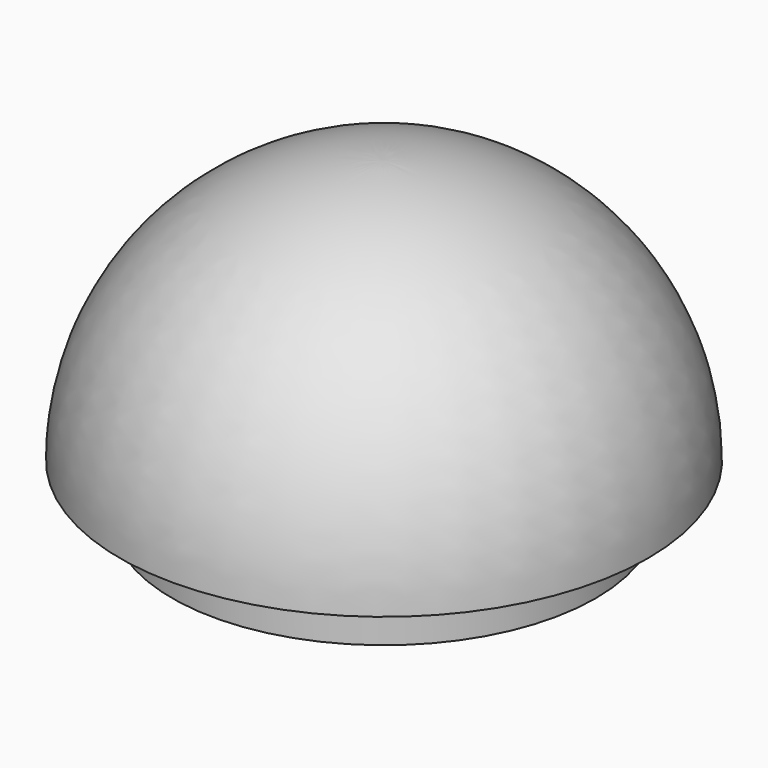
from build123d import *


with BuildPart() as f1:
    # F0 (on Front) → F1 (revolve)
    with BuildSketch(Plane.XZ):
        with BuildLine():
            Line((9.2, 11.01249), (9.2, 0))
            Line((9.2, 0), (12.2, 0))
            Line((12.2, 0), (12.2, 3))
            Line((12.2, 3), (15.2, 3))
            ThreePointArc((15.2, 3), (10.748023, 13.748023), (0, 18.2))
            Line((0, 18.2), (0, 15.2))
            ThreePointArc((0, 15.2), (5.054088, 14.103882), (9.2, 11.01249))
        make_face()
    revolve(axis=Axis((0, 0, 16.7), (0, 0, -1)))


solid = f1.part
